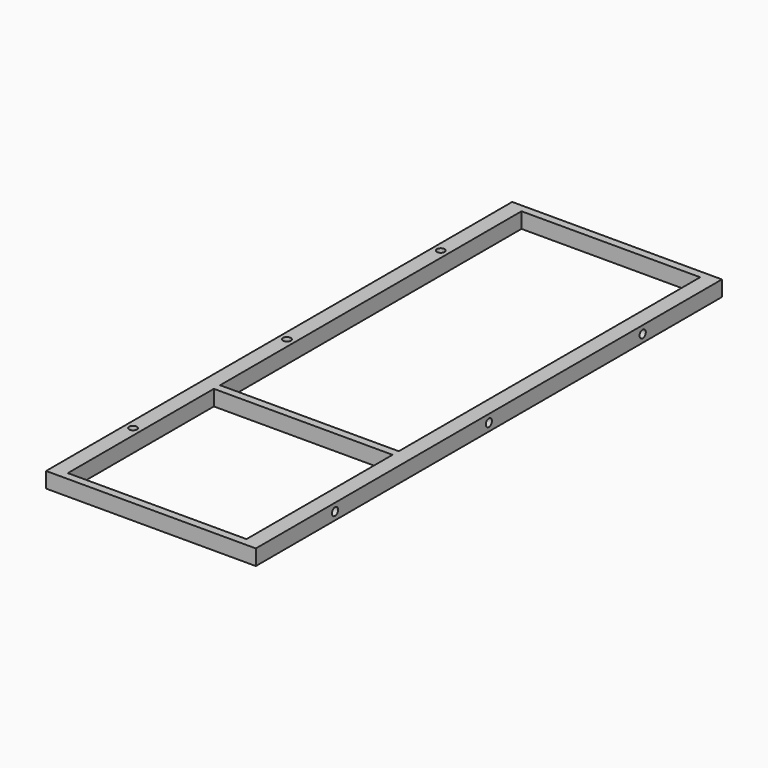
from build123d import *

# Parameters (mm, degrees)
F0_W     = 54
F0_H     = 150
F0_W_2   = 46
F0_H_2   = 47
F0_H_3   = 97
F1_DEPTH = 4
F2_R     = 1
F3_DEPTH = 25
F4_R     = 1
F5_DEPTH = 2


with BuildPart() as f1:
    # F0 (on Top) → F1 (new body)
    with BuildSketch(Plane.XY):
        Rectangle(F0_W, F0_H)
        with Locations((0, -49.5)):
            Rectangle(F0_W_2, F0_H_2, mode=Mode.SUBTRACT)
        with Locations((0, 24.5)):
            Rectangle(F0_W_2, F0_H_3, mode=Mode.SUBTRACT)
    extrude(amount=F1_DEPTH)

    # F2 (on face) → F3 (cut)
    with BuildSketch(Plane.YZ.offset(27)):
        with Locations((-49.5, 2)):
            Circle(F2_R)
        with Locations((0, 2)):
            Circle(F2_R)
        with Locations((49.5, 2)):
            Circle(F2_R)
    extrude(amount=-F3_DEPTH, mode=Mode.SUBTRACT)

    # F4 (on face) → F5 (cut)
    with BuildSketch(Plane.XY.offset(4)):
        with Locations((-25, -49.5)):
            Circle(F4_R)
        with Locations((-25, 0)):
            Circle(F4_R)
        with Locations((-25, 49.5)):
            Circle(F4_R)
    extrude(amount=-F5_DEPTH, mode=Mode.SUBTRACT)


solid = f1.part
